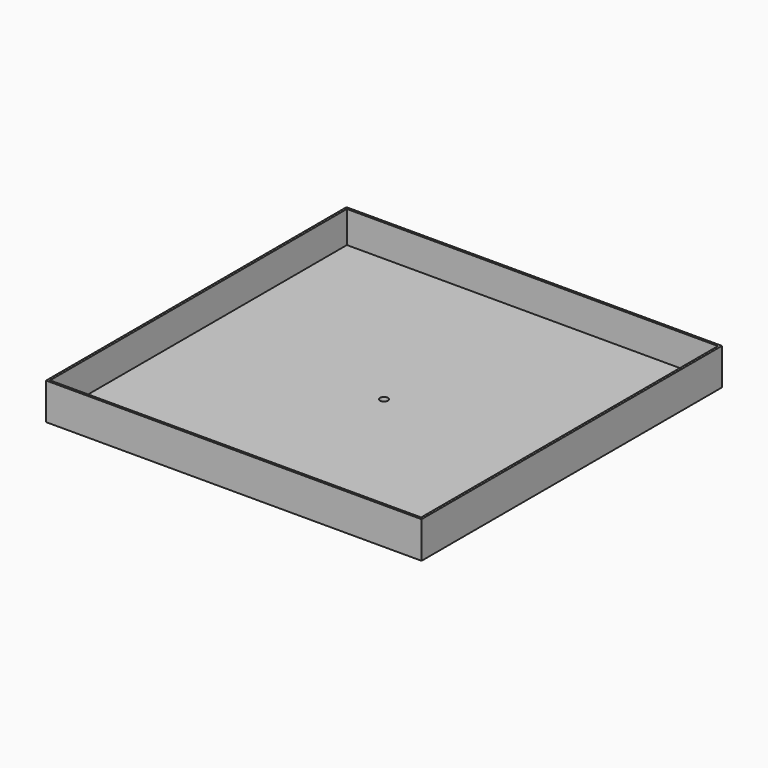
from build123d import *

# Parameters (mm, degrees)
BOX_W             = 153.8
BOX_H             = 153.8
BOX_DEPTH         = 15
BOX001_W          = 152
BOX001_H          = 152
BOX001_DEPTH      = 13
CYLINDER002_R     = 1.6
CYLINDER002_DEPTH = 10


with BuildPart() as part:
    # Box → Box (join)
    with BuildSketch(Plane(origin=(-2, 2, 0), x_dir=(1, 0, 0), z_dir=(0, 0, -1))):
        with Locations((76.9, 76.9)):
            Rectangle(BOX_W, BOX_H)
    extrude(amount=BOX_DEPTH)

    # Box001 → Box001 (cut)
    with BuildSketch(Plane(origin=(-1.1, 1.1, 0), x_dir=(1, 0, 0), z_dir=(0, 0, -1))):
        with Locations((76, 76)):
            Rectangle(BOX001_W, BOX001_H)
    extrude(amount=BOX001_DEPTH, mode=Mode.SUBTRACT)

    # Cylinder002 → Cylinder002 (cut)
    with BuildSketch(Plane(origin=(74.9, -74.9, -19.5), x_dir=(1, 0, 0), z_dir=(0, 0, 1))):
        Circle(CYLINDER002_R)
    extrude(amount=CYLINDER002_DEPTH, mode=Mode.SUBTRACT)


solid = part.part
